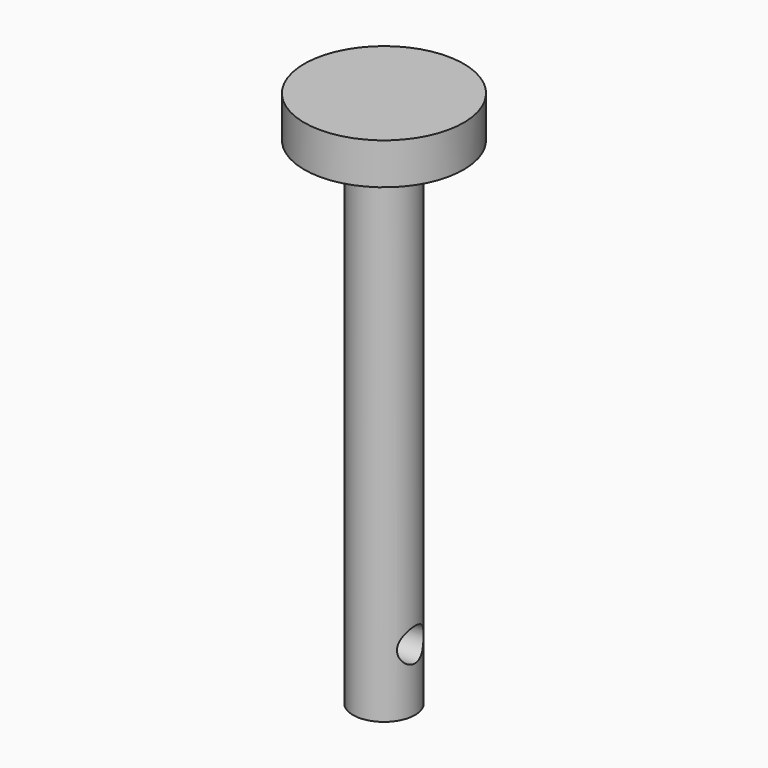
from build123d import *

# Parameters (mm, degrees)
F0_W     = 4.7625
F0_H     = 76.2
F2_R     = 2.54
F3_DEPTH = 12.7


with BuildPart() as f1:
    # F0 (on Right) → F1 (revolve)
    with BuildSketch(Plane.YZ):
        Polygon((-12.2495525092, 38.1), (-4.7625, 38.1), (0, 38.1), (0, 44.45), (-12.2495525092, 44.45), align=None)
        with Locations((-2.38125, 0)):
            Rectangle(F0_W, F0_H)
    revolve(axis=Axis((0, 0, 3.175), (0, 0, -1)))

    # F2 (on Right) → F3 (cut, symmetric)
    with BuildSketch(Plane.YZ):
        with Locations((0, -28.575)):
            Circle(F2_R)
    extrude(amount=F3_DEPTH, both=True, mode=Mode.SUBTRACT)


solid = f1.part
